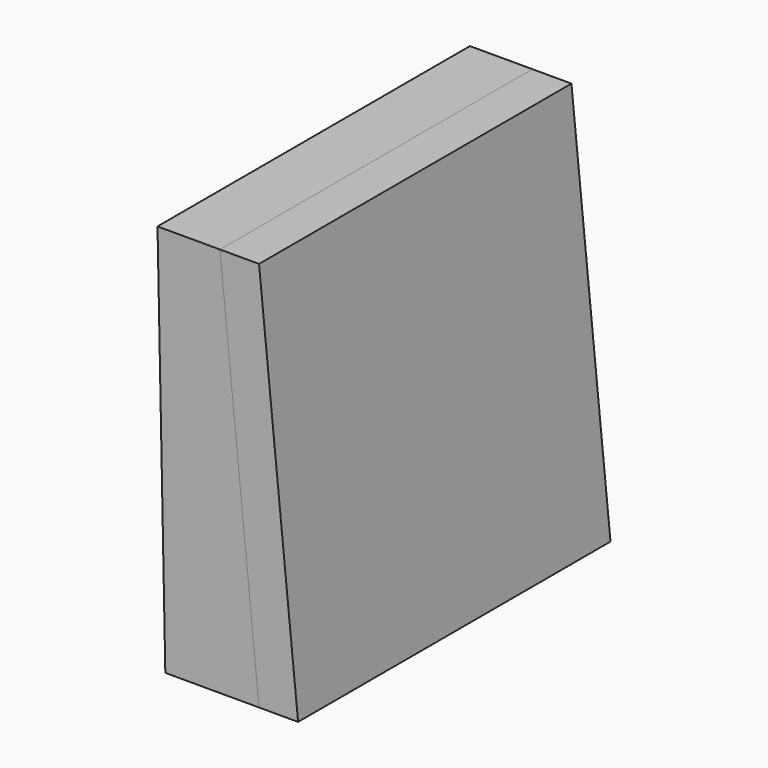
from build123d import *

# Parameters (mm, degrees)
F1_DEPTH = 25
F2_DEPTH = 25


with BuildPart() as f1:
    # F0 (on Front) → F1 (new body)
    with BuildSketch(Plane.XZ):
        Polygon((1.75, 12.5), (2.25, -12.5), (4.25, -12.5), align=None)
        Polygon((-1.75, -12.5), (2.25, -12.5), (1.75, 12.5), (-2.25, 12.5), align=None)
    extrude(amount=F1_DEPTH)


with BuildPart() as f2:
    # F0 (on Front) → F2 (new body)
    with BuildSketch(Plane.XZ):
        Polygon((4.25, 12.5), (1.75, 12.5), (4.25, -12.5), (6.75, -12.5), align=None)
    extrude(amount=F2_DEPTH)


solid = Compound([f1.part, f2.part])
